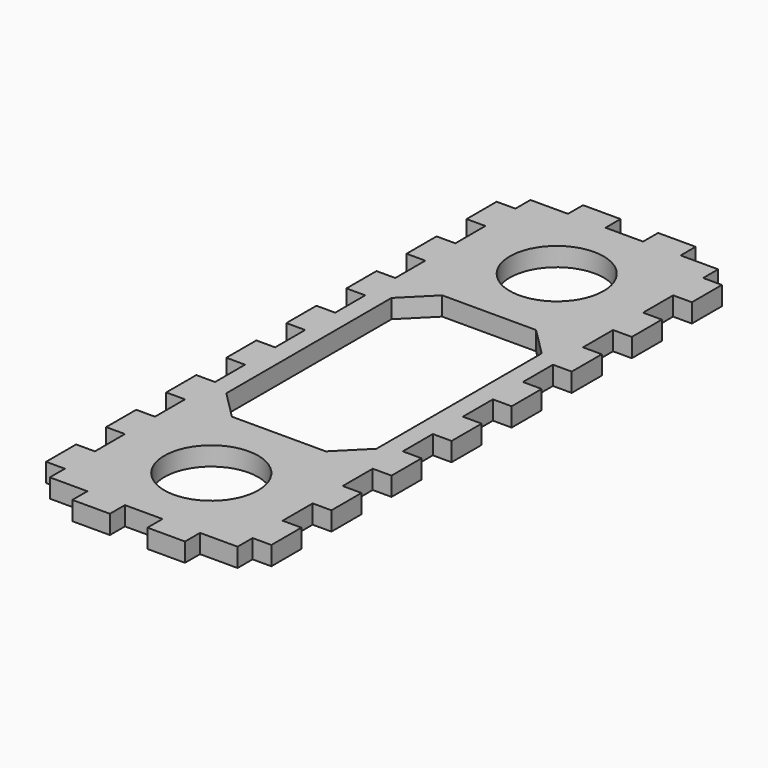
from build123d import *

# Parameters (mm, degrees)
F0_W     = 38.1
F0_H     = 107.95
F0_R     = 7.9375
F1_DEPTH = 3.175
F2_W     = 6.35
F2_H     = 3.175
F2_W_2   = 3.175
F2_H_2   = 6.35
F2_W_3   = 25.4
F2_H_3   = 44.45
F3_DEPTH = 3.175
F4_SIZE  = 4.7625


with BuildPart() as f1:
    # F0 (on Top) → F1 (new body)
    with BuildSketch(Plane.XY):
        with Locations((19.05, -53.975)):
            Rectangle(F0_W, F0_H)
        with Locations((19.05, -90.4875)):
            Circle(F0_R, mode=Mode.SUBTRACT)
        with Locations((19.05, -17.4625)):
            Circle(F0_R, mode=Mode.SUBTRACT)
    extrude(amount=F1_DEPTH)

    # F2 (on face) → F3 (cut, through all)
    with BuildSketch(Plane.XY.offset(3.175)):
        Polygon((38.1, -6.35), (38.1, 0), (34.925, 0), (34.925, -3.175), (34.925, -6.35), align=None)
        with Locations((31.75, -1.5875)):
            Rectangle(F2_W, F2_H)
        Polygon((3.175, 0), (0, 0), (0, -6.35), (3.175, -6.35), (3.175, -3.175), align=None)
        with Locations((6.35, -1.5875)):
            Rectangle(F2_W, F2_H)
        with Locations((1.5875, -15.875)):
            Rectangle(F2_W_2, F2_H_2)
        with Locations((36.5125, -15.875)):
            Rectangle(F2_W_2, F2_H_2)
        with Locations((36.5125, -28.575)):
            Rectangle(F2_W_2, F2_H_2)
        with Locations((36.5125, -41.275)):
            Rectangle(F2_W_2, F2_H_2)
        with Locations((36.5125, -53.975)):
            Rectangle(F2_W_2, F2_H_2)
        with Locations((36.5125, -66.675)):
            Rectangle(F2_W_2, F2_H_2)
        with Locations((36.5125, -79.375)):
            Rectangle(F2_W_2, F2_H_2)
        with Locations((36.5125, -92.075)):
            Rectangle(F2_W_2, F2_H_2)
        Polygon((38.1, -101.6), (34.925, -101.6), (34.925, -104.775), (34.925, -107.95), (38.1, -107.95), align=None)
        with Locations((31.75, -106.3625)):
            Rectangle(F2_W, F2_H)
        with Locations((36.5125, -117.475)):
            Rectangle(F2_W_2, F2_H_2)
        with Locations((36.5125, -130.175)):
            Rectangle(F2_W_2, F2_H_2)
        with Locations((1.5875, -28.575)):
            Rectangle(F2_W_2, F2_H_2)
        with Locations((1.5875, -41.275)):
            Rectangle(F2_W_2, F2_H_2)
        with Locations((1.5875, -53.975)):
            Rectangle(F2_W_2, F2_H_2)
        with Locations((1.5875, -66.675)):
            Rectangle(F2_W_2, F2_H_2)
        with Locations((1.5875, -79.375)):
            Rectangle(F2_W_2, F2_H_2)
        with Locations((1.5875, -92.075)):
            Rectangle(F2_W_2, F2_H_2)
        Polygon((3.175, -104.775), (3.175, -101.6), (0, -101.6), (0, -107.95), (3.175, -107.95), align=None)
        with Locations((6.35, -106.3625)):
            Rectangle(F2_W, F2_H)
        with Locations((1.5875, -117.475)):
            Rectangle(F2_W_2, F2_H_2)
        with Locations((1.5875, -130.175)):
            Rectangle(F2_W_2, F2_H_2)
        with Locations((19.05, -53.975)):
            Rectangle(F2_W_3, F2_H_3)
        with Locations((19.05, -1.5875)):
            Rectangle(F2_W, F2_H)
        with Locations((19.05, -106.3625)):
            Rectangle(F2_W, F2_H)
    extrude(amount=-F3_DEPTH, mode=Mode.SUBTRACT)

    # F4
    f4_edges = [f1.edges().sort_by_distance(p)[0] for p in [
        (31.75, -31.75, 1.5875),
        (31.75, -76.2, 1.5875),
        (6.35, -76.2, 1.5875),
        (6.35, -31.75, 1.5875),
    ]]
    chamfer(f4_edges, length=F4_SIZE)


solid = f1.part
